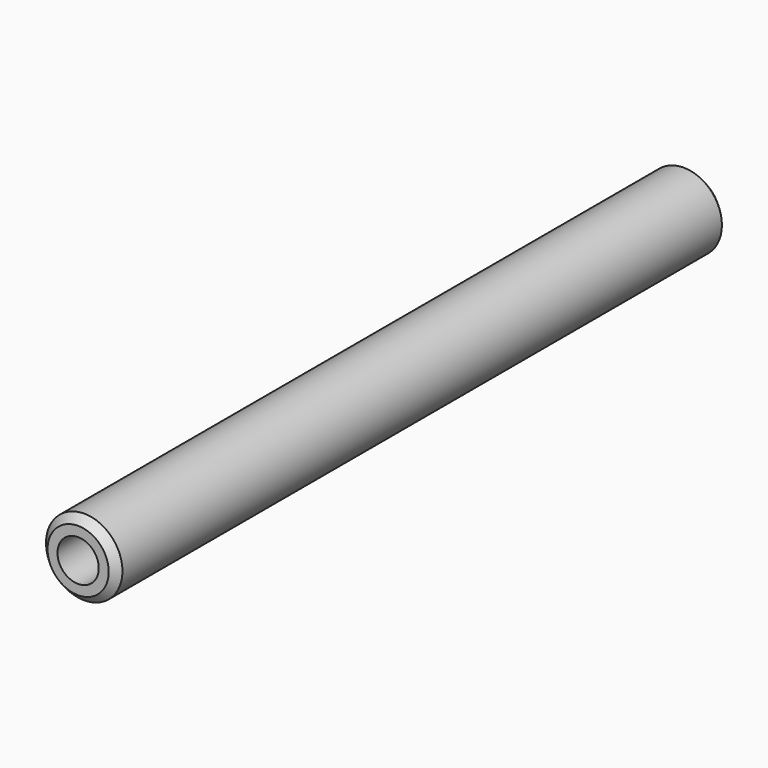
from build123d import *

# Parameters (mm, degrees)
F0_R     = 5
F1_DEPTH = 100
F2_SIZE  = 1
F4_D     = 5.4
F4_DEPTH = 33
F4_TIP   = 1.6223236714


with BuildPart() as f1:
    # F0 (on Front) → F1 (new body)
    with BuildSketch(Plane.XZ):
        Circle(F0_R)
    extrude(amount=F1_DEPTH)

    # F2
    f2_edges = [f1.edges().sort_by_distance(p)[0] for p in [
        (-5, -100, 0),
        (-5, 0, 0),
    ]]
    chamfer(f2_edges, length=F2_SIZE)

    # F4
    with Locations(Plane.XZ.offset(100)):
        with Locations((0, 0)):
            Hole(F4_D / 2, depth=F4_DEPTH)
            with Locations((0, 0, -(F4_DEPTH + F4_TIP / 2))):  # 118° drill point
                Cone(0, F4_D / 2, F4_TIP, mode=Mode.SUBTRACT)


solid = f1.part
